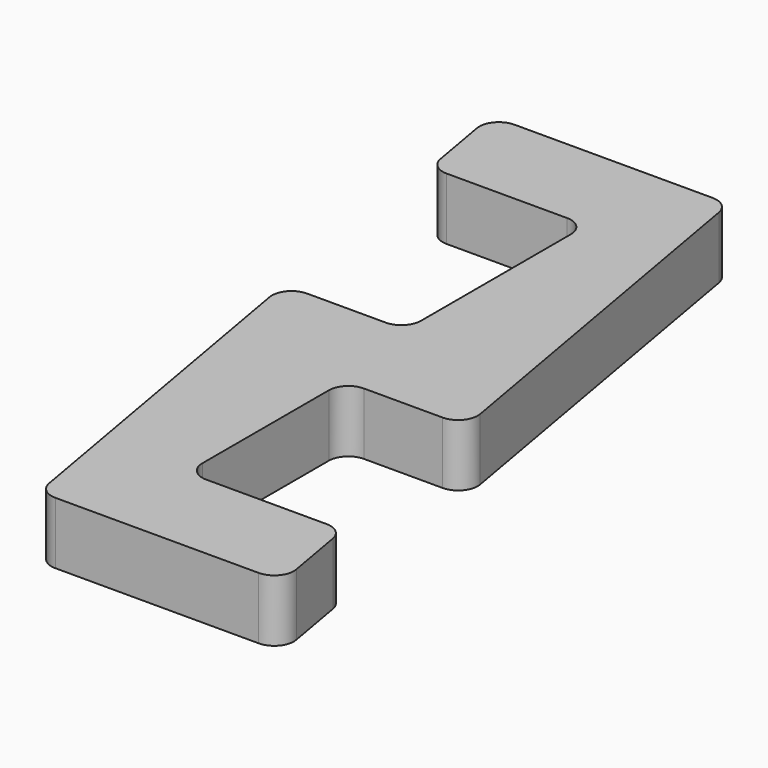
from build123d import *

# Parameters (mm, degrees)
F1_DEPTH = 6.35
F2_R     = 2


with BuildPart() as f1:
    # F0 (on Top) → F1 (new body)
    with BuildSketch(Plane.XY):
        Polygon((-24.87639, 0), (0, 0), (-1.76327, 10), (-17.76327, 10), (-17.76327, 30.2), (-5.325075, 30.2), (-12.9424, 73.4), (-37.289809, 73.4), (-35.52654, 63.4), (-19.52654, 63.4), (-19.52654, 40.2), (-31.964735, 40.2), align=None)
    extrude(amount=F1_DEPTH)

    # F2
    f2_edges = [f1.edges().sort_by_distance(p)[0] for p in [
        (-37.289809, 73.4, 3.175),
        (-35.52654, 63.4, 3.175),
        (-19.52654, 63.4, 3.175),
        (-31.964735, 40.2, 3.175),
        (-19.52654, 40.2, 3.175),
        (-12.9424, 73.4, 3.175),
        (-5.325075, 30.2, 3.175),
        (-17.76327, 30.2, 3.175),
        (-17.76327, 10, 3.175),
        (-1.76327, 10, 3.175),
        (0, 0, 3.175),
        (-24.87639, 0, 3.175),
    ]]
    fillet(f2_edges, radius=F2_R)


solid = f1.part
